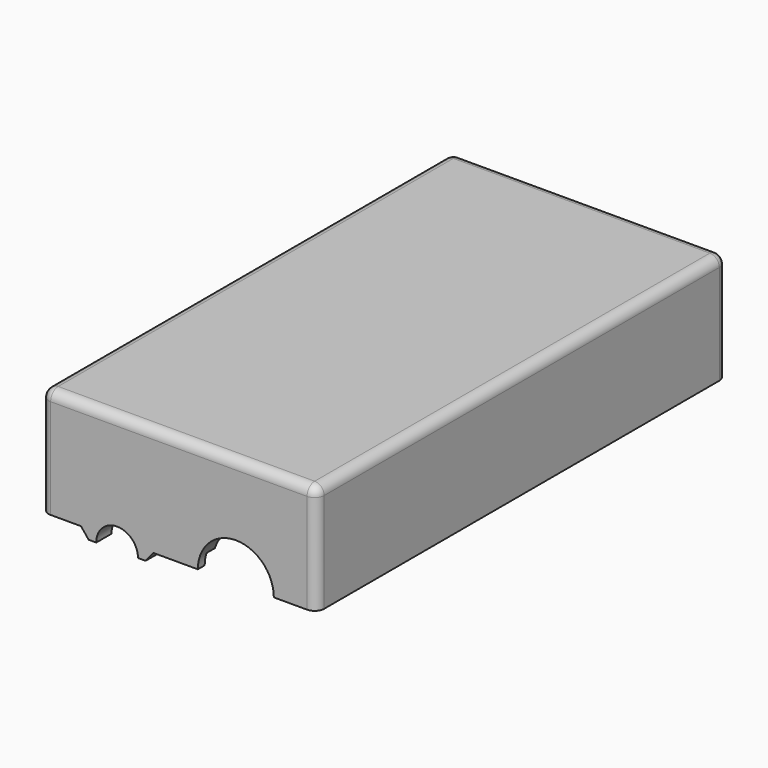
from build123d import *

# Parameters (mm, degrees)
SKETCH026_W     = 36.83
SKETCH026_H     = 68.58
PAD014_DEPTH    = 2.54
SKETCH027_W     = 36.83
SKETCH027_H     = 68.58
SKETCH027_W_2   = 31.75
SKETCH027_H_2   = 62.23
PAD015_DEPTH    = 12.065
SKETCH028_R     = 3.175
PAD016_DEPTH    = 12.065
SKETCH029_R     = 1.143
POCKET009_DEPTH = 9.525
SKETCH030_R     = 3.175
PAD017_DEPTH    = 15.875
SKETCH031_R     = 1.143
POCKET010_DEPTH = 9.525
PAD018_DEPTH    = 2.54
SKETCH033_R     = 2.794
SKETCH033_R_2   = 5.08
POCKET011_DEPTH = 5.08
POCKET012_DEPTH = 12.065
SKETCH035_W     = 5.08
SKETCH035_H     = 1.143
SKETCH035_W_2   = 29.21
PAD019_DEPTH    = 1.27
POCKET013_DEPTH = 1.524
FILLET_R        = 1.27


with BuildPart() as part:
    # Sketch026 → Pad014 (new body)
    with BuildSketch(Plane.XY):
        with Locations((15.875, 31.75)):
            Rectangle(SKETCH026_W, SKETCH026_H)
    extrude(amount=PAD014_DEPTH)

    # Sketch027 (on Face5 of Pad014) → Pad015 (join)
    with BuildSketch(Plane(origin=(0, 0, 0), x_dir=(1, 0, 0), z_dir=(0, 0, -1))):
        with Locations((15.875, -31.75)):
            Rectangle(SKETCH027_W, SKETCH027_H)
        with Locations((15.875, -31.115)):
            Rectangle(SKETCH027_W_2, SKETCH027_H_2, mode=Mode.SUBTRACT)
    extrude(amount=PAD015_DEPTH)

    # Sketch028 (on Face15 of Pad015) → Pad016 (join)
    with BuildSketch(Plane(origin=(0, 0, 0), x_dir=(1, 0, 0), z_dir=(0, 0, -1))):
        with Locations((7.62, -50.8)):
            Circle(SKETCH028_R)
        with Locations((24.13, -50.8)):
            Circle(SKETCH028_R)
    extrude(amount=PAD016_DEPTH)

    # Sketch029 (on Face18 of Pad016) → Pocket009 (cut)
    with BuildSketch(Plane(origin=(0, 0, -12.065), x_dir=(1, 0, 0), z_dir=(0, 0, -1))):
        with Locations((7.62, -50.8)):
            Circle(SKETCH029_R)
        with Locations((24.13, -50.8)):
            Circle(SKETCH029_R)
    extrude(amount=-POCKET009_DEPTH, mode=Mode.SUBTRACT)

    # Sketch030 (on Face15 of Pocket009) → Pad017 (join)
    with BuildSketch(Plane(origin=(0, 0, 0), x_dir=(1, 0, 0), z_dir=(0, 0, -1))):
        with Locations((7.62, -22.225)):
            Circle(SKETCH030_R)
    extrude(amount=PAD017_DEPTH)

    # Sketch031 (on Face19 of Pad017) → Pocket010 (cut)
    with BuildSketch(Plane(origin=(0, 0, -15.875), x_dir=(1, 0, 0), z_dir=(0, 0, -1))):
        with Locations((7.62, -22.225)):
            Circle(SKETCH031_R)
    extrude(amount=-POCKET010_DEPTH, mode=Mode.SUBTRACT)

    # Sketch032 (on Face4 of Pocket010) → Pad018 (join)
    with BuildSketch(Plane.XZ.offset(2.54)):
        Polygon((2.794, -12.065), (12.446, -12.065), (11.43, -13.335), (7.62, -13.335), (3.81, -13.335), align=None)
    extrude(amount=-PAD018_DEPTH)

    # Sketch033 (on Face4 of Pad018) → Pocket011 (cut)
    with BuildSketch(Plane.XZ.offset(2.54)):
        with Locations((7.62, -13.335)):
            Circle(SKETCH033_R)
        with Locations((23.495, -12.065)):
            Circle(SKETCH033_R_2)
    extrude(amount=-POCKET011_DEPTH, mode=Mode.SUBTRACT)

    # Sketch034 (on Face9 of Pocket011) → Pocket012 (cut)
    with BuildSketch(Plane(origin=(0, 0, -12.065), x_dir=(1, 0, 0), z_dir=(0, 0, -1))):
        Polygon((1.27, -62.23), (1.27, -63.373), (0, -63.373), (0, -64.897), (1.27, -64.897), (1.27, -66.04), (30.48, -66.04), (30.48, -64.897), (31.75, -64.897), (31.75, -63.373), (30.48, -63.373), (30.48, -62.23), align=None)
    extrude(amount=-POCKET012_DEPTH, mode=Mode.SUBTRACT)

    # Sketch035 (on Face17 of Pocket012) → Pad019 (join)
    with BuildSketch(Plane(origin=(0, 0, 0), x_dir=(1, 0, 0), z_dir=(0, 0, -1))):
        with Locations((3.81, -62.8015)):
            Rectangle(SKETCH035_W, SKETCH035_H)
        with Locations((15.875, -65.4685)):
            Rectangle(SKETCH035_W_2, SKETCH035_H)
        with Locations((27.94, -62.8015)):
            Rectangle(SKETCH035_W, SKETCH035_H)
    extrude(amount=PAD019_DEPTH)

    # Sketch036 (on Face15 of Pad019) → Pocket013 (cut)
    with BuildSketch(Plane(origin=(0, 0, -12.065), x_dir=(1, 0, 0), z_dir=(0, 0, -1))):
        Polygon((-1.397, 1.397), (-1.397, -63.627), (33.147, -63.627), (33.147, 1.397), (12.446, 1.397), (12.446, 0), (31.75, 0), (31.75, -62.23), (0, -62.23), (0, 0), (2.794, 0), (2.794, 1.397), align=None)
    extrude(amount=-POCKET013_DEPTH, mode=Mode.SUBTRACT)

    # Fillet
    fillet_edges = [part.edges().sort_by_distance(p)[0] for p in [
        (34.29, 31.75, 2.54),
        (15.875, 66.04, 2.54),
        (-2.54, 31.75, 2.54),
        (15.875, -2.54, 2.54),
        (34.29, -2.54, 1.27),
        (34.29, -2.54, -6.0325),
        (34.29, 66.04, 1.27),
        (34.29, 66.04, -6.0325),
        (-2.54, 66.04, -6.0325),
        (-2.54, 66.04, 1.27),
        (-2.54, -2.54, -6.0325),
        (-2.54, -2.54, 1.27),
    ]]
    fillet(fillet_edges, radius=FILLET_R)


with BuildPart() as part_1:
    # Body020 placement: moved
    add(part.part.moved(Location((0, 0, 15.875))))


solid = part_1.part
